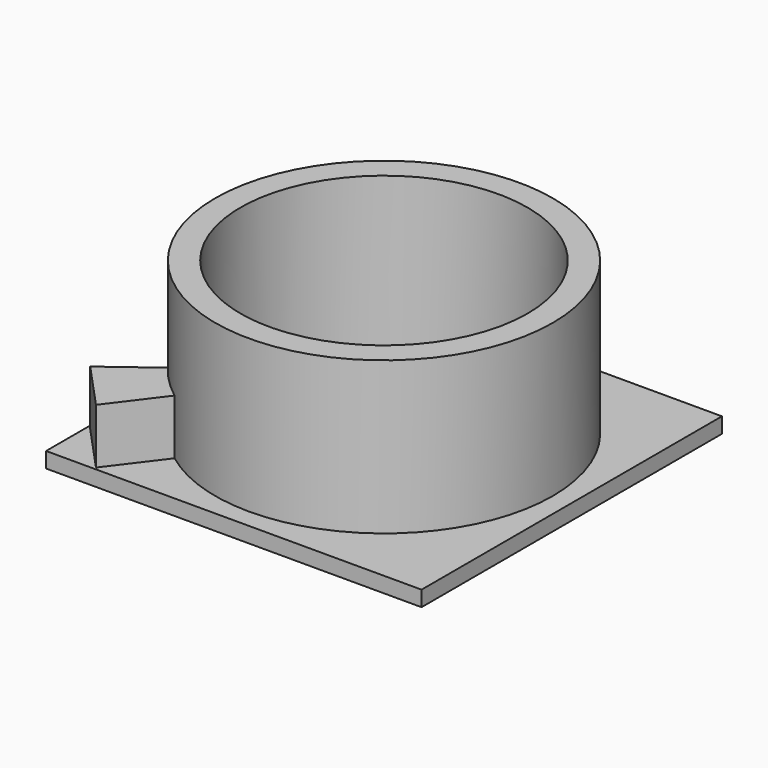
from build123d import *

# Parameters (mm, degrees)
F0_R     = 76.431145
F0_R_2   = 65
F1_DEPTH = 69
F0_W     = 170
F0_H     = 170
F2_DEPTH = 7
F4_DEPTH = 25


with BuildPart() as f1:
    # F0 (on Top) → F1 (new body)
    with BuildSketch(Plane.XY):
        Circle(F0_R)
        Circle(F0_R_2, mode=Mode.SUBTRACT)
    extrude(amount=F1_DEPTH)

    # F0 (on Top) → F2 (join)
    with BuildSketch(Plane.XY):
        Rectangle(F0_W, F0_H)
        Circle(F0_R, mode=Mode.SUBTRACT)
        Circle(F0_R)
        Circle(F0_R_2, mode=Mode.SUBTRACT)
    extrude(amount=-F2_DEPTH)

    # F3 (on face) → F4 (join)
    with BuildSketch(Plane.XY):
        with BuildLine():
            ThreePointArc((-46.036632, -61.011052), (-54.149607, -53.940152), (-61.189011, -45.799835))
            Line((-61.189011, -45.799835), (-83.201844, -62.276389))
            Line((-83.201844, -62.276389), (-63.29952, -83.889073))
            Line((-63.29952, -83.889073), (-46.036632, -61.011052))
        make_face()
    extrude(amount=F4_DEPTH)


solid = f1.part
